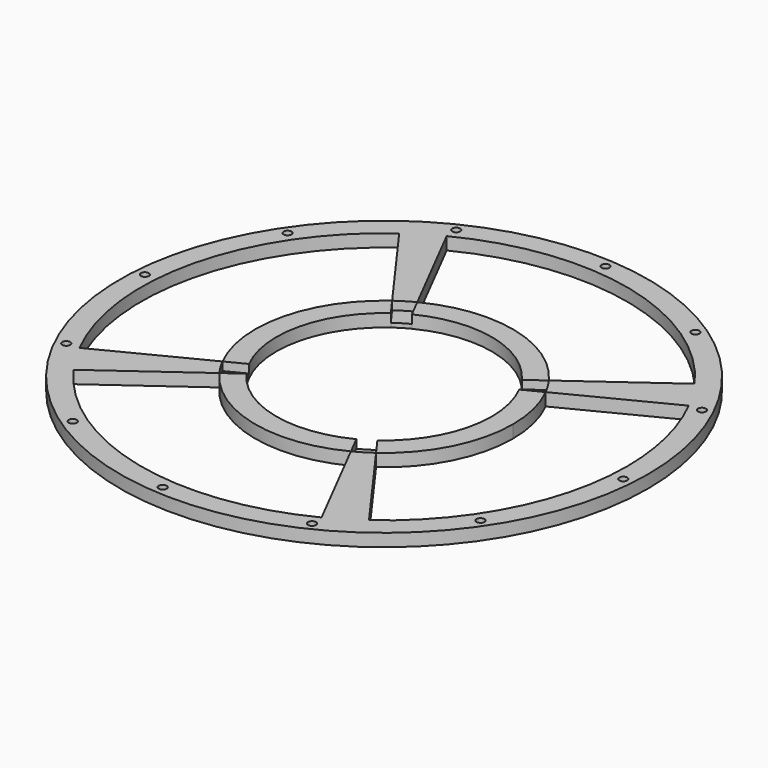
from build123d import *

# Parameters (mm, degrees)
F0_R     = 62.5
F0_R_2   = 0.95
F1_DEPTH = 3
F2_DEPTH = 1


with BuildPart() as f1:
    # F0 (on Top) → F1 (new body)
    with BuildSketch(Plane.XY):
        with Locations((-11.4963501692, 27.9728826135)):
            Circle(F0_R)
        with Locations((-45.3054299303, -21.9164186971)):
            Circle(F0_R_2, mode=Mode.SUBTRACT)
        with Locations((-15.8312214656, -32.1370595791)):
            Circle(F0_R_2, mode=Mode.SUBTRACT)
        with Locations((-65.7205227762, 1.672020182)):
            Circle(F0_R_2, mode=Mode.SUBTRACT)
        with Locations((14.8045122623, -26.2512899935)):
            Circle(F0_R_2, mode=Mode.SUBTRACT)
        with Locations((38.3929511415, -5.8361971476)):
            Circle(F0_R_2, mode=Mode.SUBTRACT)
        with Locations((48.6135920235, 23.6380113171)):
            Circle(F0_R_2, mode=Mode.SUBTRACT)
        with Locations((-71.6062923619, 32.3077539099)):
            Circle(F0_R_2, mode=Mode.SUBTRACT)
        with Locations((-61.3856514799, 61.7819623747)):
            Circle(F0_R_2, mode=Mode.SUBTRACT)
        with Locations((-37.7972126007, 82.1970552206)):
            Circle(F0_R_2, mode=Mode.SUBTRACT)
        with BuildLine():
            ThreePointArc((35.0970928529, 61.6671116053), (37.5498519583, 57.9848811619), (39.7122301293, 54.1249629097))
            ThreePointArc((39.7122301293, 54.1249629097), (44.4086736085, 41.4219835656), (46.0036498308, 27.9728826135))
            ThreePointArc((46.0036498308, 27.9728826135), (39.707498158, 1.8115386785), (22.1978788226, -18.6205604085))
            ThreePointArc((22.1978788226, -18.6205604085), (18.5156483792, -21.073319514), (14.655730127, -23.2356976849))
            ThreePointArc((14.655730127, -23.2356976849), (-24.9555645945, -27.9297071928), (-58.0897931912, -5.7213463782))
            ThreePointArc((-58.0897931912, -5.7213463782), (-60.5425522967, -2.0391159348), (-62.7049304676, 1.8208023173))
            ThreePointArc((-62.7049304676, 1.8208023173), (-67.3989399755, 41.4320970388), (-45.190579161, 74.5663256356))
            ThreePointArc((-45.190579161, 74.5663256356), (-41.5083487176, 77.019084741), (-37.6484304654, 79.181462912))
            ThreePointArc((-37.6484304654, 79.181462912), (1.9628642561, 83.8754724199), (35.0970928529, 61.6671116053))
        make_face(mode=Mode.SUBTRACT)
        with Locations((42.7278224379, 54.2737450451)):
            Circle(F0_R_2, mode=Mode.SUBTRACT)
        with Locations((-7.1614788728, 88.0828248062)):
            Circle(F0_R_2, mode=Mode.SUBTRACT)
        with Locations((22.312729592, 77.8621839242)):
            Circle(F0_R_2, mode=Mode.SUBTRACT)
        with BuildLine():
            ThreePointArc((13.2184326512, 45.845473644), (14.5194613941, 43.8922905392), (15.6664619891, 41.8448556402))
            Line((15.6664619891, 41.8448556402), (39.7122301293, 54.1249629097))
            ThreePointArc((39.7122301293, 54.1249629097), (37.5498519583, 57.9848811619), (35.0970928529, 61.6671116053))
            Line((35.0970928529, 61.6671116053), (13.2184326512, 45.845473644))
        make_face()
        with BuildLine():
            ThreePointArc((-29.3689411996, 52.6876654339), (-27.4157580948, 53.9886941768), (-25.3683231959, 55.1356947718))
            Line((-25.3683231959, 55.1356947718), (-37.6484304654, 79.181462912))
            ThreePointArc((-37.6484304654, 79.181462912), (-41.5083487176, 77.019084741), (-45.190579161, 74.5663256356))
            Line((-45.190579161, 74.5663256356), (-29.3689411996, 52.6876654339))
        make_face()
        with BuildLine():
            Line((22.1978788226, -18.6205604085), (6.3762408612, 3.2580997931))
            ThreePointArc((6.3762408612, 3.2580997931), (4.4230577565, 1.9570710503), (2.3756228575, 0.8100704552))
            Line((2.3756228575, 0.8100704552), (14.655730127, -23.2356976849))
            ThreePointArc((14.655730127, -23.2356976849), (18.5156483792, -21.073319514), (22.1978788226, -18.6205604085))
        make_face()
        with BuildLine():
            Line((-58.0897931912, -5.7213463782), (-36.2111329896, 10.1002915831))
            ThreePointArc((-36.2111329896, 10.1002915831), (-37.5121617325, 12.0534746879), (-38.6591623275, 14.1009095869))
            Line((-38.6591623275, 14.1009095869), (-62.7049304676, 1.8208023173))
            ThreePointArc((-62.7049304676, 1.8208023173), (-60.5425522967, -2.0391159348), (-58.0897931912, -5.7213463782))
        make_face()
    extrude(amount=F1_DEPTH)


with BuildPart() as f1b:
    # F0 (on Top) → F1, piece 2 (new body)
    with BuildSketch(Plane.XY):
        with BuildLine():
            ThreePointArc((-23.0942292571, 50.6827747459), (-5.5274811632, 52.764465919), (9.1668289102, 42.9155406882))
            Line((9.1668289102, 42.9155406882), (13.2184326512, 45.845473644))
            ThreePointArc((13.2184326512, 45.845473644), (-4.3571146914, 57.6255606847), (-25.3683231959, 55.1356947718))
            Line((-25.3683231959, 55.1356947718), (-23.0942292571, 50.6827747459))
        make_face()
    extrude(amount=F1_DEPTH)


with BuildPart() as f1c:
    # F0 (on Top) → F1, piece 3 (new body)
    with BuildSketch(Plane.XY):
        with BuildLine():
            ThreePointArc((-34.2062423015, 16.3750035257), (-36.2879334746, 33.9417516195), (-26.4390082438, 48.6360616929))
            Line((-26.4390082438, 48.6360616929), (-29.3689411996, 52.6876654339))
            ThreePointArc((-29.3689411996, 52.6876654339), (-41.1490282404, 35.1121180913), (-38.6591623275, 14.1009095869))
            Line((-38.6591623275, 14.1009095869), (-34.2062423015, 16.3750035257))
        make_face()
    extrude(amount=F1_DEPTH)


with BuildPart() as f1d:
    # F0 (on Top) → F1, piece 4 (new body)
    with BuildSketch(Plane.XY):
        with BuildLine():
            Line((2.3756228575, 0.8100704552), (0.1015289187, 5.2629904812))
            ThreePointArc((0.1015289187, 5.2629904812), (-17.4652191752, 3.1812993081), (-32.1595292485, 13.0302245389))
            Line((-32.1595292485, 13.0302245389), (-36.2111329896, 10.1002915831))
            ThreePointArc((-36.2111329896, 10.1002915831), (-18.6355856469, -1.6797954576), (2.3756228575, 0.8100704552))
        make_face()
    extrude(amount=F1_DEPTH)


with BuildPart() as f1e:
    # F0 (on Top) → F1, piece 5 (new body)
    with BuildSketch(Plane.XY):
        with BuildLine():
            ThreePointArc((11.2135419632, 39.5707617014), (13.2963125496, 33.937266514), (14.0036498308, 27.9728826135))
            ThreePointArc((14.0036498308, 27.9728826135), (11.2114434368, 16.3708953032), (3.4463079054, 7.3097035342))
            Line((3.4463079054, 7.3097035342), (6.3762408612, 3.2580997931))
            ThreePointArc((6.3762408612, 3.2580997931), (15.663951987, 14.0959958306), (19.0036498308, 27.9728826135))
            ThreePointArc((19.0036498308, 27.9728826135), (18.1576189651, 35.1067535534), (15.6664619891, 41.8448556402))
            Line((15.6664619891, 41.8448556402), (11.2135419632, 39.5707617014))
        make_face()
    extrude(amount=F1_DEPTH)


with BuildPart() as f2:
    # F0 (on Top) → F2 (new body)
    with BuildSketch(Plane.XY):
        with BuildLine():
            ThreePointArc((-26.4390082438, 48.6360616929), (-24.8060190906, 49.7238070353), (-23.0942292571, 50.6827747459))
            Line((-23.0942292571, 50.6827747459), (-25.3683231959, 55.1356947718))
            ThreePointArc((-25.3683231959, 55.1356947718), (-27.4157580948, 53.9886941768), (-29.3689411996, 52.6876654339))
            Line((-29.3689411996, 52.6876654339), (-26.4390082438, 48.6360616929))
        make_face()
    extrude(amount=F2_DEPTH)


with BuildPart() as f2b:
    # F0 (on Top) → F2, piece 2 (new body)
    with BuildSketch(Plane.XY):
        with BuildLine():
            Line((-36.2111329896, 10.1002915831), (-32.1595292485, 13.0302245389))
            ThreePointArc((-32.1595292485, 13.0302245389), (-33.2472745909, 14.6632136921), (-34.2062423015, 16.3750035257))
            Line((-34.2062423015, 16.3750035257), (-38.6591623275, 14.1009095869))
            ThreePointArc((-38.6591623275, 14.1009095869), (-37.5121617325, 12.0534746879), (-36.2111329896, 10.1002915831))
        make_face()
    extrude(amount=F2_DEPTH)


with BuildPart() as f2c:
    # F0 (on Top) → F2, piece 3 (new body)
    with BuildSketch(Plane.XY):
        with BuildLine():
            Line((6.3762408612, 3.2580997931), (3.4463079054, 7.3097035342))
            ThreePointArc((3.4463079054, 7.3097035342), (1.8133187523, 6.2219581918), (0.1015289187, 5.2629904812))
            Line((0.1015289187, 5.2629904812), (2.3756228575, 0.8100704552))
            ThreePointArc((2.3756228575, 0.8100704552), (4.4230577565, 1.9570710503), (6.3762408612, 3.2580997931))
        make_face()
    extrude(amount=F2_DEPTH)


with BuildPart() as f2d:
    # F0 (on Top) → F2, piece 4 (new body)
    with BuildSketch(Plane.XY):
        with BuildLine():
            ThreePointArc((9.1668289102, 42.9155406882), (10.2545742526, 41.282551535), (11.2135419632, 39.5707617014))
            Line((11.2135419632, 39.5707617014), (15.6664619891, 41.8448556402))
            ThreePointArc((15.6664619891, 41.8448556402), (14.5194613941, 43.8922905392), (13.2184326512, 45.845473644))
            Line((13.2184326512, 45.845473644), (9.1668289102, 42.9155406882))
        make_face()
    extrude(amount=F2_DEPTH)


solid = Compound([f1.part, f1b.part, f1c.part, f1d.part, f1e.part, f2.part, f2b.part, f2c.part, f2d.part])
